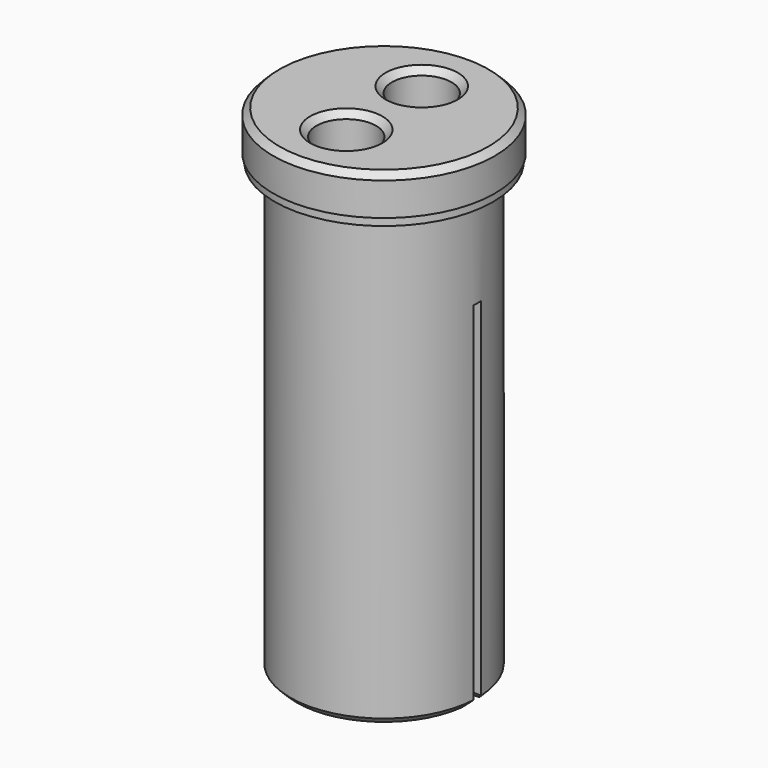
from build123d import *

# Parameters (mm, degrees)
SKETCH014_R             = 7.05
PAD004_DEPTH            = 2.5
SKETCH015_R             = 6.95
PAD005_DEPTH            = 0.5
SKETCH016_R             = 5.95
PAD006_DEPTH            = 28.5
SKETCH018_R             = 1.9
POCKET010_DEPTH         = 5
SKETCH019_R             = 1.6
POCKET011_DEPTH         = 31.501
SKETCH020_W             = 0.6
SKETCH020_H             = 16
POCKET012_DEPTH         = 34
CHAMFER_SIZE            = 0.4
CHAMFER003_SIZE         = 0.4
BODY003_ROLL_ANGLE      = 180
BODY003_PLACEMENT_ANGLE = -90


with BuildPart() as part:
    # Sketch014 → Pad004 (new body)
    with BuildSketch(Plane.XY):
        Circle(SKETCH014_R)
    extrude(amount=PAD004_DEPTH)

    # Sketch015 (on DatumPlane) → Pad005 (join)
    with BuildSketch(Plane.XY.offset(2.5)):
        Circle(SKETCH015_R)
    extrude(amount=PAD005_DEPTH)

    # Sketch016 (on DatumPlane) → Pad006 (join)
    with BuildSketch(Plane.XY.offset(3)):
        Circle(SKETCH016_R)
    extrude(amount=PAD006_DEPTH)

    # Sketch018 (on DatumPlane) → Pocket010 (cut)
    with BuildSketch(Plane.XY):
        with Locations((-3, 0)):
            Circle(SKETCH018_R)
        with Locations((3, 0)):
            Circle(SKETCH018_R)
    extrude(amount=POCKET010_DEPTH, mode=Mode.SUBTRACT)

    # Sketch019 (on DatumPlane) → Pocket011 (cut, through all)
    with BuildSketch(Plane.XY):
        with Locations((-3, 0)):
            Circle(SKETCH019_R)
        with Locations((3, 0)):
            Circle(SKETCH019_R)
    extrude(amount=POCKET011_DEPTH, mode=Mode.SUBTRACT)

    # Sketch020 (on DatumPlane) → Pocket012 (cut)
    with BuildSketch(Plane.XY.offset(43)):
        Rectangle(SKETCH020_W, SKETCH020_H)
    extrude(amount=-POCKET012_DEPTH, mode=Mode.SUBTRACT)

    # Chamfer
    chamfer_edges = [part.edges().sort_by_distance(p)[0] for p in [
        (-0.3, 0, 31.5),
        (-5.95, 0, 31.5),
        (0.3, 0, 31.5),
        (4.312047, -4.099848, 31.5),
        (4.312047, 4.099848, 31.5),
    ]]
    chamfer(chamfer_edges, length=CHAMFER_SIZE)

    # Chamfer003
    chamfer003_edges = [part.edges().sort_by_distance(p)[0] for p in [
        (-7.05, 0, 0),
        (-4.9, 0, 0),
        (1.1, 0, 0),
    ]]
    chamfer(chamfer003_edges, length=CHAMFER003_SIZE)


with BuildPart() as part_1:
    # Body003 roll: moved
    add(part.part.rotate(Axis((0, 0, 0), (1, 0, 0)), BODY003_ROLL_ANGLE))


with BuildPart() as part_2:
    # Body003 placement: moved
    add(part_1.part.moved(Location((0, 0, 21))).rotate(Axis((0, 0, 21), (0, 0, 1)), BODY003_PLACEMENT_ANGLE))


solid = part_2.part
